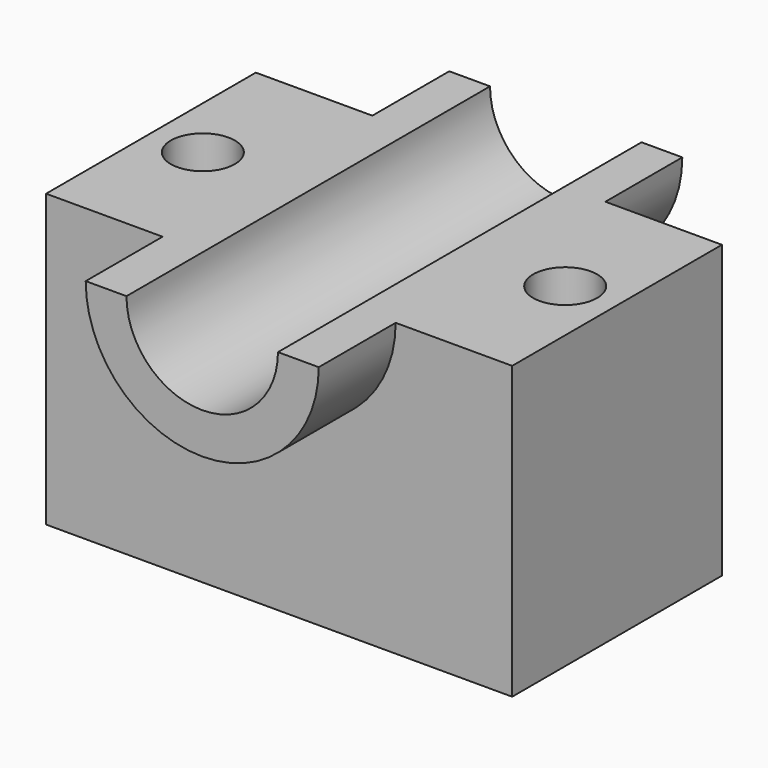
from build123d import *

# Parameters (mm, degrees)
F0_W     = 80
F0_H     = 45
F0_R     = 5.5
F1_DEPTH = 50
F3_DEPTH = 39
F4_DEPTH = 45


with BuildPart() as f1:
    # F0 (on Top) → F1 (new body)
    with BuildSketch(Plane.XY):
        Rectangle(F0_W, F0_H)
        with Locations((-31.096611172, 0)):
            Circle(F0_R, mode=Mode.SUBTRACT)
        with Locations((31.096611172, 0)):
            Circle(F0_R, mode=Mode.SUBTRACT)
    extrude(amount=F1_DEPTH)

    # F2 (on Front) → F3 (join, symmetric)
    with BuildSketch(Plane.XZ):
        with BuildLine():
            ThreePointArc((-20, 50), (0, 30), (20, 50))
            Line((20, 50), (13, 50))
            ThreePointArc((13, 50), (0, 37), (-13, 50))
            Line((-13, 50), (-20, 50))
        make_face()
    extrude(amount=F3_DEPTH, both=True)

    # F4 (cut, through all): a face of the model
    f4_faces = [f1.faces().sort_by_distance(p)[0] for p in [
        (0, -22.5, 44.4826286395),
    ]]
    extrude(f4_faces, amount=-F4_DEPTH, mode=Mode.SUBTRACT)


solid = f1.part
